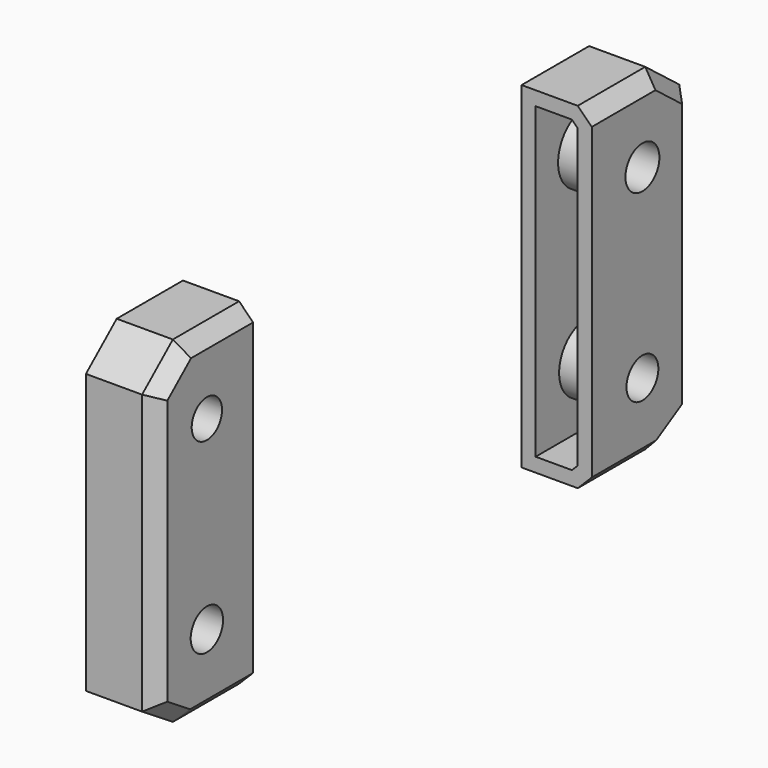
from build123d import *

# Parameters (mm, degrees)
F0_R      = 3.6002021033
F0_R_2    = 3.8374661776
F1_DEPTH  = 12.7
F0_R_3    = 3.6638057652
F0_R_4    = 3.429521016
F2_SIZE   = 2.54
F2_2_SIZE = 2.54
F3_T      = -2.54
F3_2_T    = -2.54


with BuildPart() as f1:
    # F0 (on Right) → F1 (new body)
    with BuildSketch(Plane.YZ):
        Polygon((48.3463816345, 31.6545777023), (33.0807119608, 31.6545777023), (33.0807119608, -29.2643960565), (48.3463816345, -29.2643960565), (56.046359241, -24.798180908), (56.046359241, 25.7010944188), align=None)
        with Locations((44.5367097855, -15.5241359025)):
            Circle(F0_R, mode=Mode.SUBTRACT)
        with Locations((44.5367097855, 18.0324837565)):
            Circle(F0_R_2, mode=Mode.SUBTRACT)
    extrude(amount=F1_DEPTH)

    # F2
    f2_edges = [f1.edges().sort_by_distance(p)[0] for p in [
        (12.7, 40.713547, 31.654578),
        (12.7, 52.19637, 28.677836),
        (12.7, 56.046359, 0.451457),
        (12.7, 40.713547, -29.264396),
        (12.7, 52.19637, -27.031288),
    ]]
    chamfer(f2_edges, length=F2_SIZE)

    # F3
    f3_openings = [f1.faces().sort_by_distance(p)[0] for p in [
        (6.303722, 33.080712, 1.195091),
    ]]
    offset(amount=F3_T, openings=f3_openings)


with BuildPart() as f1b:
    # F0 (on Right) → F1, piece 2 (new body)
    with BuildSketch(Plane.YZ):
        Polygon((-43.512262404, -29.2643960565), (-43.512262404, 31.6545777023), (-58.4939457476, 31.6545777023), (-65.4580891132, 25.7010944188), (-65.4580891132, -24.798180908), (-58.4939457476, -29.2643960565), align=None)
        with Locations((-53.9743751287, -15.5241359025)):
            Circle(F0_R_3, mode=Mode.SUBTRACT)
        with Locations((-53.9743751287, 18.0324837565)):
            Circle(F0_R_4, mode=Mode.SUBTRACT)
    extrude(amount=F1_DEPTH)

    # F2#2
    f2_2_edges = [f1b.edges().sort_by_distance(p)[0] for p in [
        (12.7, -51.003104, 31.654578),
        (12.7, -61.976017, 28.677836),
        (12.7, -65.458089, 0.451457),
        (12.7, -61.976017, -27.031288),
        (12.7, -51.003104, -29.264396),
    ]]
    chamfer(f2_2_edges, length=F2_2_SIZE)

    # F3#2
    f3_2_openings = [f1b.faces().sort_by_distance(p)[0] for p in [
        (6.303722, -43.512262, 1.195091),
    ]]
    offset(amount=F3_2_T, openings=f3_2_openings)


solid = Compound([f1.part, f1b.part])
